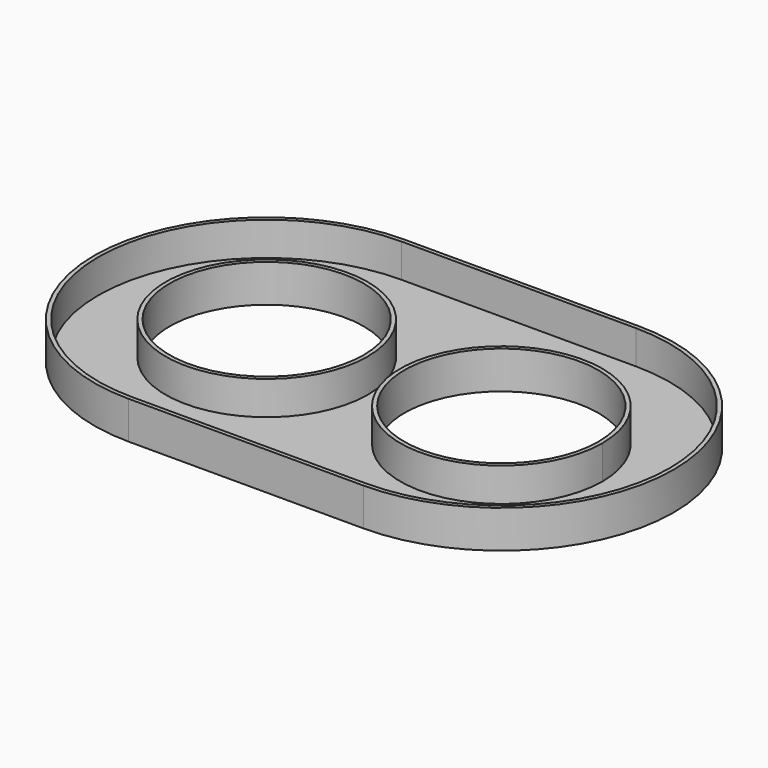
from build123d import *

# Parameters (mm, degrees)
F0_R     = 19.05
F1_DEPTH = 6.35
F2_T     = 0.762


with BuildPart() as f1:
    # F0 (on Top) → F1 (new body)
    with BuildSketch(Plane.XY):
        with BuildLine():
            Line((0, 31.75), (-44.2468, 31.75))
            ThreePointArc((-44.2468, 31.75), (-75.9968, 0), (-44.2468, -31.75))
            Line((-44.2468, -31.75), (0, -31.75))
            ThreePointArc((0, -31.75), (31.75, 0), (0, 31.75))
        make_face()
        with Locations((-44.2468, 0)):
            Circle(F0_R, mode=Mode.SUBTRACT)
        with BuildLine():
            ThreePointArc((-14.8329292767, -11.9535228729), (-6.3377913061, 17.9648240003), (19.05, 0))
            ThreePointArc((19.05, 0), (6.3377913061, -17.9648240003), (-14.8329292767, -11.9535228729))
        make_face(mode=Mode.SUBTRACT)
    extrude(amount=F1_DEPTH)

    # F2
    f2_openings = [f1.faces().sort_by_distance(p)[0] for p in [
        (-22.1234, 0, 6.35),
    ]]
    offset(amount=F2_T, openings=f2_openings, kind=Kind.INTERSECTION)


solid = f1.part
